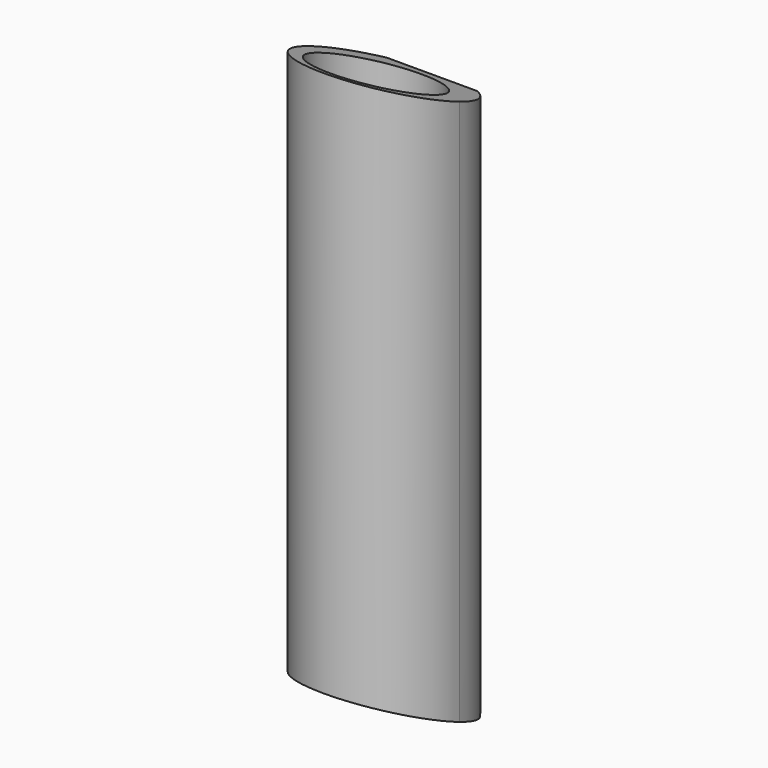
from build123d import *

# Parameters (mm, degrees)
F0_R          = 9.5
F1_DEPTH      = 100
F3_DEPTH      = 25
F3_DEPTH_BACK = 25


with BuildPart() as f1:
    # F0 (on Top) → F1 (new body)
    with BuildSketch(Plane.XY):
        with BuildLine():
            ThreePointArc((-7.5, 10), (-5.59017, -11.18034), (12.5, 0))
            ThreePointArc((12.5, 0), (11.18034, 5.59017), (7.5, 10))
            Line((7.5, 10), (-7.5, 10))
        make_face()
        with Locations((0, -1.666667)):
            Circle(F0_R, mode=Mode.SUBTRACT)
    extrude(amount=F1_DEPTH)


with BuildPart() as f3:
    # F2 (on Right) → F3 (new body, two sides)
    with BuildSketch(Plane.YZ) as f3_sk:
        Polygon((10, 100), (-12.5, 100), (10, 90.680195), align=None)
        Polygon((-12.5, 9.319805), (-12.5, 0), (10, 0), align=None)
    extrude(amount=F3_DEPTH)
    extrude(f3_sk.sketch, amount=-F3_DEPTH_BACK)


with BuildPart() as f1_1:
    add(f1.part)

    # F4: cut F3
    add(f3.part, mode=Mode.SUBTRACT)


solid = f1_1.part
